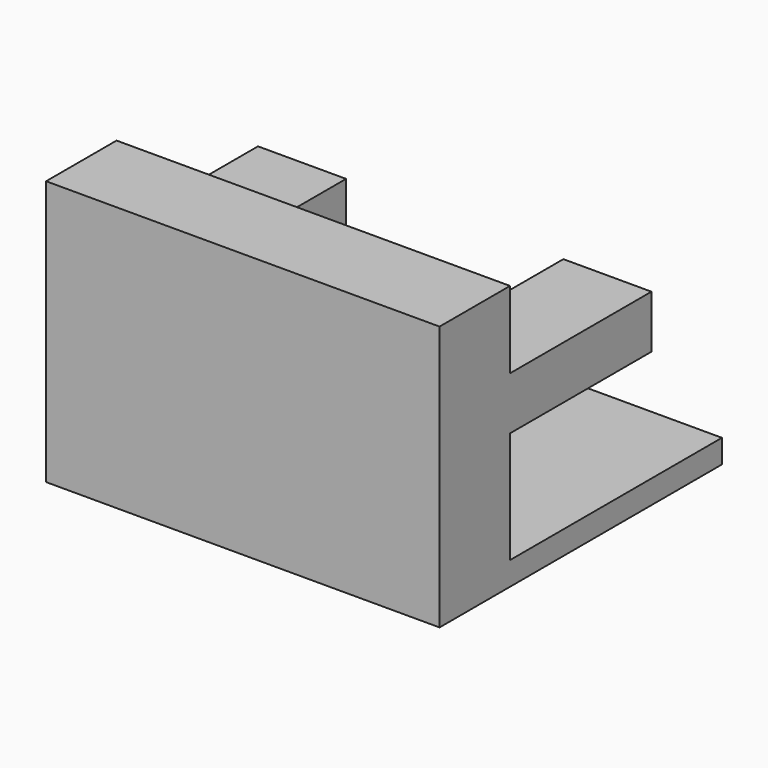
from build123d import *

# Parameters (mm, degrees)
F0_W     = 37
F0_H     = 30.1
F0_H_2   = 15
F0_W_2   = 15
F1_DEPTH = 4
F2_DEPTH = 41.1
F3_W     = 15
F3_H     = 9
F4_DEPTH = 30.1


with BuildPart() as f1:
    # F0 (on Top) → F1 (new body)
    with BuildSketch(Plane.XY):
        Polygon((33.5, -15.05), (33.5, 30.05), (-33.5, 30.05), (-33.5, -15.05), (-18.5, -15.05), (-18.5, 15.05), (18.5, 15.05), (18.5, -15.05), align=None)
        Rectangle(F0_W, F0_H)
        with Locations((0, -22.55)):
            Rectangle(F0_W, F0_H_2)
        with Locations((-26, -22.55)):
            Rectangle(F0_W_2, F0_H_2)
        with Locations((26, -22.55)):
            Rectangle(F0_W_2, F0_H_2)
    extrude(amount=-F1_DEPTH)

    # F0 (on Top) → F2 (join)
    with BuildSketch(Plane.XY):
        with Locations((0, -22.55)):
            Rectangle(F0_W, F0_H_2)
        with Locations((-26, -22.55)):
            Rectangle(F0_W_2, F0_H_2)
        with Locations((26, -22.55)):
            Rectangle(F0_W_2, F0_H_2)
    extrude(amount=F2_DEPTH)

    # F3 (on face) → F4 (join)
    with BuildSketch(Plane(origin=(0, -15.05, 0), x_dir=(-1, 0, 0), z_dir=(0, 1, 0))):
        with Locations((26, 23.5)):
            Rectangle(F3_W, F3_H)
        with Locations((-26, 23.5)):
            Rectangle(F3_W, F3_H)
    extrude(amount=F4_DEPTH)


solid = f1.part
